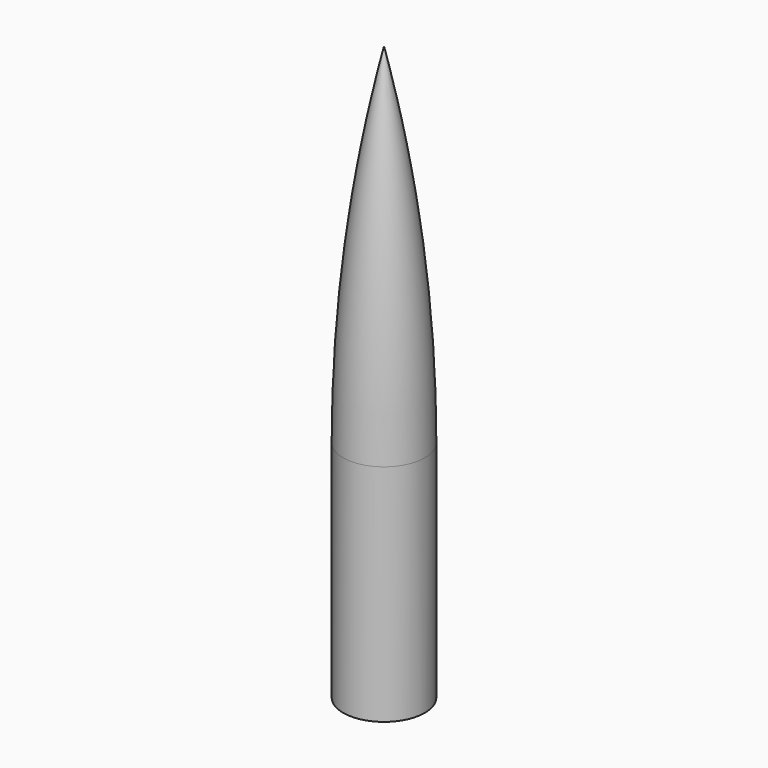
from build123d import *


with BuildPart() as f1:
    # F0 (on Right) → F1 (revolve)
    with BuildSketch(Plane.YZ):
        with BuildLine():
            Line((0, 64), (0, 0))
            Line((0, 0), (4, 0))
            Line((4, 0), (4, 2.053821))
            ThreePointArc((4, 2.053821), (4.617953, 3.520971), (6.099375, 4.10388))
            ThreePointArc((6.099375, 4.10388), (8.146199, 4.909262), (9, 6.936367))
            Line((9, 6.936367), (9, 53.674467))
            ThreePointArc((9, 53.674467), (6.434196, 60.523128), (0, 64))
        make_face()
    revolve(axis=Axis((0, 0, 32), (0, 0, 1)))


with BuildPart() as f3:
    # F2 (on Right) → F3 (revolve)
    with BuildSketch(Plane.YZ):
        with BuildLine():
            Line((0, 161.322549), (0, 74.075651))
            Line((0, 74.075651), (9.5, 55.416616))
            Line((9.5, 55.416616), (9.5, 0))
            Line((9.5, 0), (11.5, 0))
            Line((11.5, 0), (11.5, 63.138768))
            ThreePointArc((11.5, 63.138768), (8.615207, 112.566252), (0, 161.322549))
        make_face()
    revolve(axis=Axis((0, 0, 80.661274), (0, 0, 1)))


solid = Compound([f1.part, f3.part])
